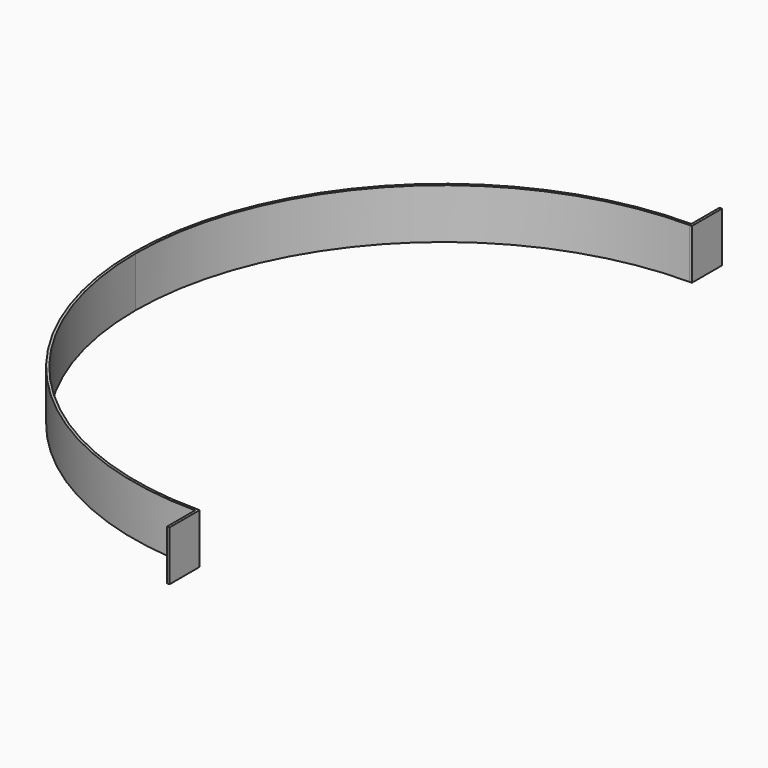
from build123d import *

# Parameters (mm, degrees)
F1_DEPTH = 100


with BuildPart() as f1:
    # F0 (on Top) → F1 (new body)
    with BuildSketch(Plane.XY):
        with BuildLine():
            Line((-615, 0), (-620, 0))
            ThreePointArc((-620, 0), (-438.406204, -438.406204), (0, -620))
            Line((0, -620), (0, -615))
            ThreePointArc((0, -615), (-434.87067, -434.87067), (-615, 0))
        make_face()
        Polygon((0, -615), (0, -620), (0, -690), (5, -690), (5, -615), align=None)
    extrude(amount=F1_DEPTH)

    # F2: F1 across face


with BuildPart() as f1_1:
    add(f1.part)
    add(f1.part.mirror(Plane(origin=(-617.5, 0, 50), x_dir=(-1, 0, 0), z_dir=(0, 1, 0))))


solid = f1_1.part
